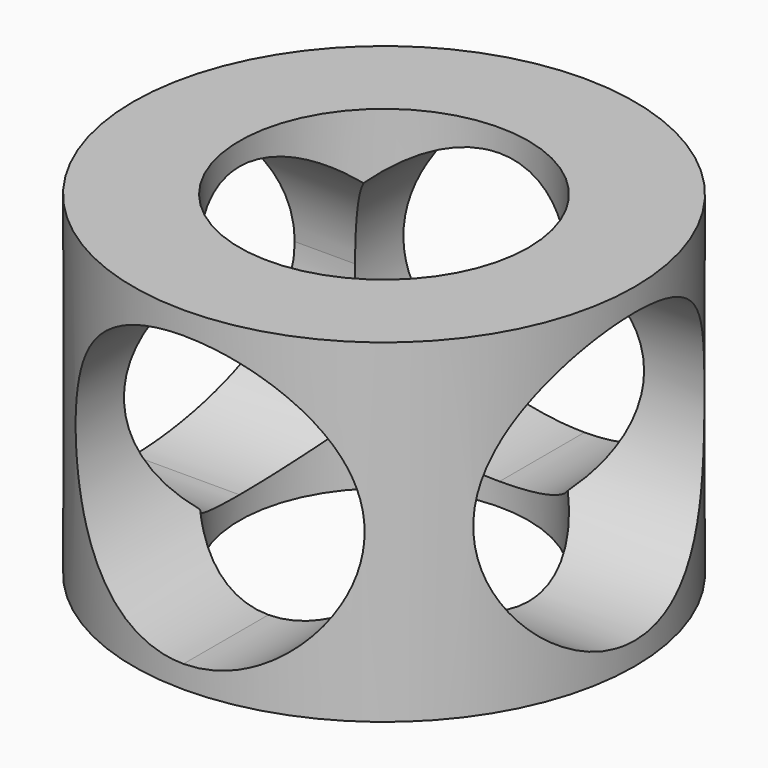
from build123d import *

# Parameters (mm, degrees)
F0_R      = 38.1180063549
F1_DEPTH  = 50.8
F2_R      = 21.971
F3_DEPTH  = 63.5
F5_DEPTH  = 76.2
F7_DEPTH  = 76.2
F9_DEPTH  = 76.2
F10_R     = 21.971
F11_DEPTH = 76.2


with BuildPart() as f1:
    # F0 (on Top) → F1 (new body)
    with BuildSketch(Plane.XY):
        Circle(F0_R)
    extrude(amount=F1_DEPTH)

    # F2 (on Top) → F3 (cut)
    with BuildSketch(Plane.XY):
        Circle(F2_R)
    extrude(amount=F3_DEPTH, mode=Mode.SUBTRACT)

    # F4 (on Front) → F5 (cut)
    with BuildSketch(Plane.XZ):
        with BuildLine():
            ThreePointArc((0, 3.429), (15.5358430894, 9.8641569106), (21.971, 25.4))
            ThreePointArc((21.971, 25.4), (15.5358430894, 40.9358430894), (0, 47.371))
            Line((0, 47.371), (0, 3.429))
        make_face()
        with BuildLine():
            Line((0, 3.429), (0, 47.371))
            ThreePointArc((0, 47.371), (-21.971, 25.4), (0, 3.429))
        make_face()
    extrude(amount=-F5_DEPTH, mode=Mode.SUBTRACT)

    # F6 (on Front) → F7 (cut)
    with BuildSketch(Plane.XZ):
        with BuildLine():
            ThreePointArc((0, 3.429), (15.5358430894, 9.8641569106), (21.971, 25.4))
            ThreePointArc((21.971, 25.4), (15.5358430894, 40.9358430894), (0, 47.371))
            Line((0, 47.371), (0, 3.429))
        make_face()
        with BuildLine():
            Line((0, 3.429), (0, 47.371))
            ThreePointArc((0, 47.371), (-21.971, 25.4), (0, 3.429))
        make_face()
    extrude(amount=F7_DEPTH, mode=Mode.SUBTRACT)

    # F8 (on Right) → F9 (cut)
    with BuildSketch(Plane.YZ):
        with BuildLine():
            Line((0, 3.429), (0, 47.371))
            ThreePointArc((0, 47.371), (-21.971, 25.4), (0, 3.429))
        make_face()
        with BuildLine():
            ThreePointArc((0, 3.429), (15.5358430894, 9.8641569106), (21.971, 25.4))
            ThreePointArc((21.971, 25.4), (15.5358430894, 40.9358430894), (0, 47.371))
            Line((0, 47.371), (0, 3.429))
        make_face()
    extrude(amount=-F9_DEPTH, mode=Mode.SUBTRACT)

    # F10 (on Right) → F11 (cut)
    with BuildSketch(Plane.YZ):
        with Locations((0, 25.4)):
            Circle(F10_R)
    extrude(amount=F11_DEPTH, mode=Mode.SUBTRACT)


solid = f1.part
